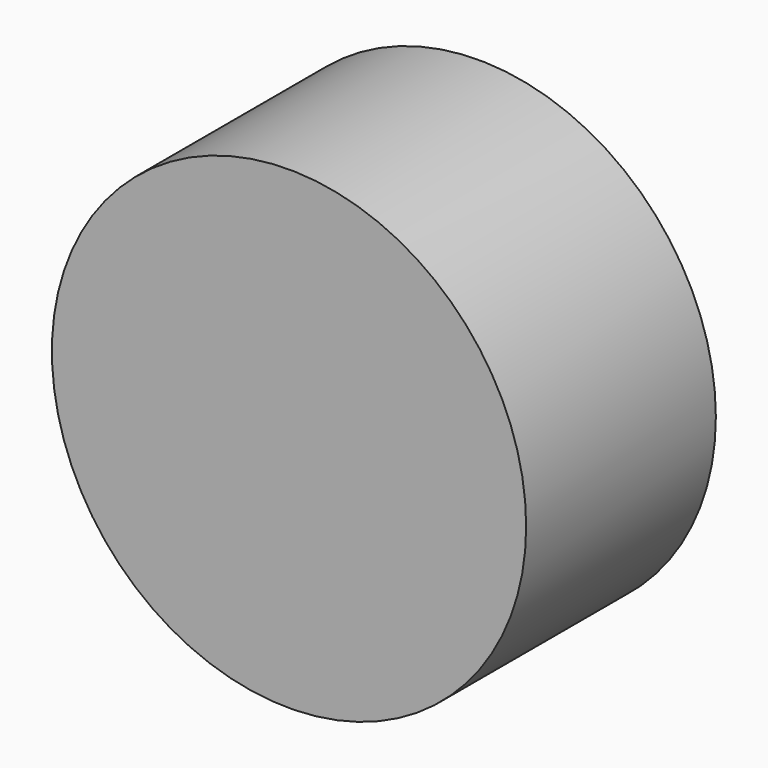
from build123d import *

# Parameters (mm, degrees)
F0_R     = 50
F1_DEPTH = 50
F2_R     = 25
F3_DEPTH = 10


with BuildPart() as f1:
    # F0 (on Front) → F1 (new body)
    with BuildSketch(Plane.XZ):
        Circle(F0_R)
        with BuildLine():
            ThreePointArc((0, 25), (17.67767, 17.67767), (25, 0))
            ThreePointArc((25, 0), (-17.67767, -17.67767), (0, 25))
        make_face(mode=Mode.SUBTRACT)
        with BuildLine():
            ThreePointArc((0, 25), (-17.67767, -17.67767), (25, 0))
            ThreePointArc((25, 0), (17.67767, 17.67767), (0, 25))
        make_face()
    extrude(amount=F1_DEPTH)

    # F2 (on Front) → F3 (cut)
    with BuildSketch(Plane.XZ):
        Circle(F2_R)
        Circle(F2_R)
    extrude(amount=F3_DEPTH, mode=Mode.SUBTRACT)


solid = f1.part
